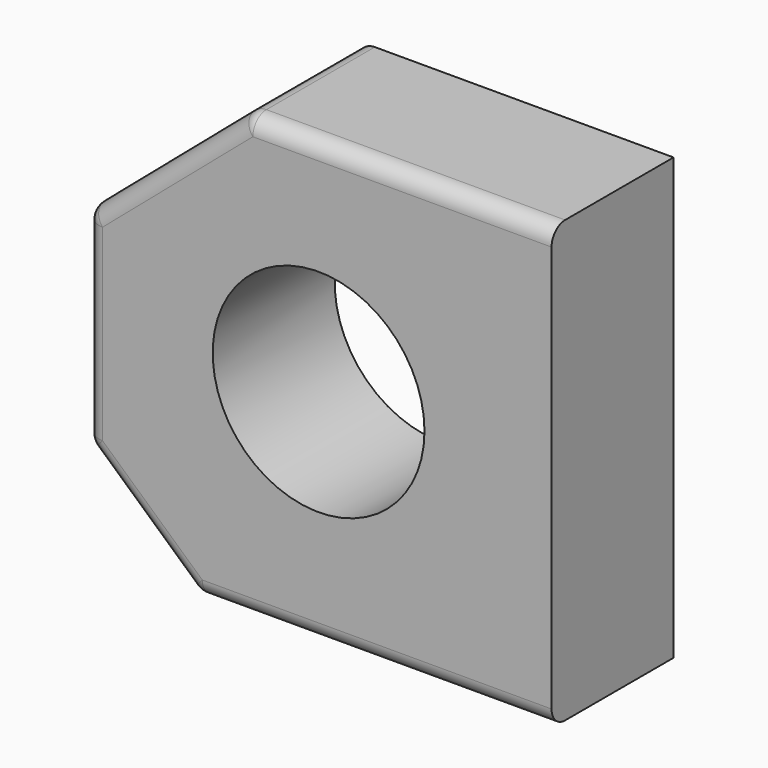
from build123d import *

# Parameters (mm, degrees)
F0_R     = 12.5
F1_DEPTH = 9
F2_R     = 2


with BuildPart() as f1:
    # F0 (on Front) → F1 (new body, symmetric)
    with BuildSketch(Plane.XZ):
        Polygon((-14.5, -26), (27.5, -26), (27.5, 26), (-8.5, 26), (-27.5, 9.751923), (-27.5, -14.248077), align=None)
        Circle(F0_R, mode=Mode.SUBTRACT)
    extrude(amount=F1_DEPTH, both=True)

    # F2
    f2_edges = [f1.edges().sort_by_distance(p)[0] for p in [
        (9.5, -9, 26),
        (-18, -9, 17.875962),
        (-27.5, -9, -2.248077),
        (-21, -9, -20.124038),
        (6.5, -9, -26),
        (-8.5, 0, 26),
        (-27.5, 0, 9.751923),
        (-27.5, 0, -14.248077),
        (-14.5, 0, -26),
    ]]
    fillet(f2_edges, radius=F2_R)


solid = f1.part
